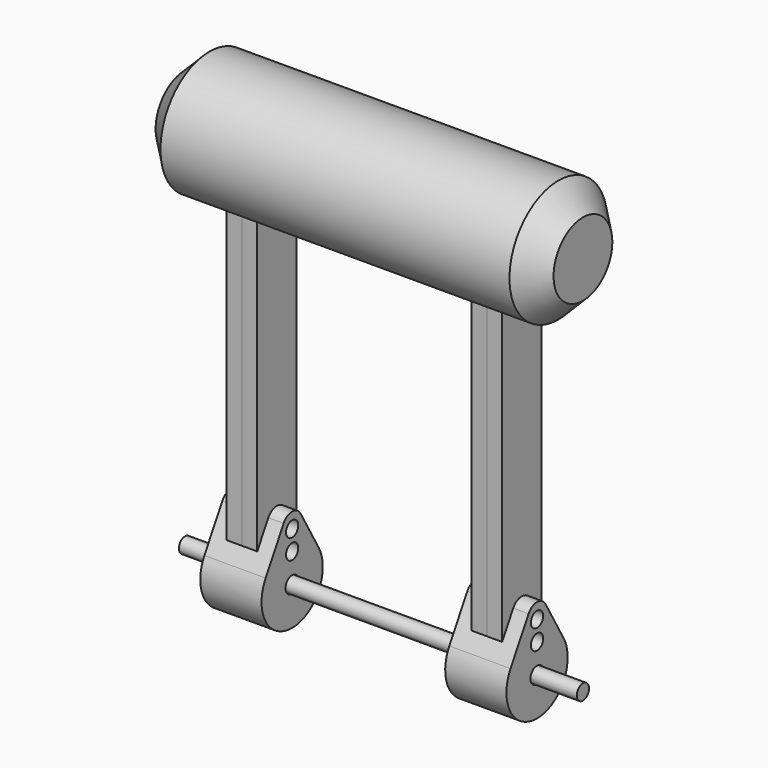
from build123d import *

# Parameters (mm, degrees)
F0_R           = 1.5875
F1_DEPTH       = 41.275
F1_DEPTH_BACK  = 41.275
F3_R           = 1.7145
F4_DEPTH       = 6.35
F4_DEPTH_BACK  = 6.35
F5_W           = 6.35
F5_H           = 10.16
F6_DEPTH       = 5.08
F6_DEPTH_BACK  = 5.08
F8_DEPTH       = 3.175
F9_DEPTH       = 3.175
F10_R          = 1.5875
F11_DEPTH      = 25.4
F11_DEPTH_BACK = 25.4
F13_R          = 12.7
F14_DEPTH      = 41.275
F14_DEPTH_BACK = 41.275
F15_SIZE       = 5.08
F16_W          = 6.35
F16_H          = 19.05
F17_DEPTH      = 5.08
F17_DEPTH_BACK = 5.08


with BuildPart() as f1:
    # F0 (on Right) → F1 (new body, two sides)
    with BuildSketch(Plane.YZ) as f1_sk:
        Circle(F0_R)
    extrude(amount=F1_DEPTH)
    extrude(f1_sk.sketch, amount=-F1_DEPTH_BACK)


with BuildPart() as f4:
    # F3 (on offset) → F4 (new body, two sides)
    with BuildSketch(Plane.YZ.offset(25.4)) as f4_sk:
        with BuildLine():
            ThreePointArc((-6.8740766425, 3.96875), (-2.0543761705, -7.6670362462), (7.9375, 0))
            ThreePointArc((7.9375, 0), (7.6670362462, 2.0543761705), (6.8740766425, 3.96875))
            ThreePointArc((6.8740766425, 3.96875), (0, 7.9375), (-6.8740766425, 3.96875))
        make_face()
        Circle(F3_R, mode=Mode.SUBTRACT)
        with BuildLine():
            ThreePointArc((-6.8740766425, 3.96875), (0, 7.9375), (6.8740766425, 3.96875))
            Line((6.8740766425, 3.96875), (2.1997045256, 12.065))
            ThreePointArc((2.1997045256, 12.065), (0, 13.335), (-2.1997045256, 12.065))
            Line((-2.1997045256, 12.065), (-6.8740766425, 3.96875))
        make_face()
    extrude(amount=F4_DEPTH)
    extrude(f4_sk.sketch, amount=-F4_DEPTH_BACK)

    # F5 (on Front) → F6 (cut, two sides)
    with BuildSketch(Plane.XZ) as f6_sk:
        with Locations((25.4, 7.9375)):
            Rectangle(F5_W, F5_H)
    extrude(amount=-F6_DEPTH, mode=Mode.SUBTRACT)
    extrude(f6_sk.sketch, amount=F6_DEPTH_BACK, mode=Mode.SUBTRACT)


with BuildPart() as f8:
    # F7 (on offset) → F8 (new body)
    with BuildSketch(Plane.YZ.offset(25.4)):
        with BuildLine():
            Line((-5.08, 7.0761818976), (-5.08, 2.8575))
            Line((-5.08, 2.8575), (5.08, 2.8575))
            Line((5.08, 2.8575), (5.08, 7.0761818976))
            Line((5.08, 7.0761818976), (5.08, 79.0575))
            ThreePointArc((5.08, 79.0575), (3.5921024484, 82.6496024484), (0, 84.1375))
            ThreePointArc((0, 84.1375), (-3.5921024484, 82.6496024484), (-5.08, 79.0575))
            Line((-5.08, 79.0575), (-5.08, 7.0761818976))
        make_face()
    extrude(amount=F8_DEPTH)


with BuildPart() as f9:
    # F7 (on offset) → F9 (new body)
    with BuildSketch(Plane.YZ.offset(25.4)):
        with BuildLine():
            Line((-5.08, 7.0761818976), (-5.08, 2.8575))
            Line((-5.08, 2.8575), (5.08, 2.8575))
            Line((5.08, 2.8575), (5.08, 7.0761818976))
            Line((5.08, 7.0761818976), (5.08, 79.0575))
            ThreePointArc((5.08, 79.0575), (3.5921024484, 82.6496024484), (0, 84.1375))
            ThreePointArc((0, 84.1375), (-3.5921024484, 82.6496024484), (-5.08, 79.0575))
            Line((-5.08, 79.0575), (-5.08, 7.0761818976))
        make_face()
    extrude(amount=-F9_DEPTH)


with BuildPart() as f11_tool:
    # F10 (on offset) → F11 (new body, two sides)
    with BuildSketch(Plane.YZ.offset(25.4)) as f11_sk:
        with Locations((0, 6.0325)):
            Circle(F10_R)
        with Locations((0, 10.16)):
            Circle(F10_R)
    extrude(amount=-F11_DEPTH)
    extrude(f11_sk.sketch, amount=F11_DEPTH_BACK)


with BuildPart() as f4_1:
    add(f4.part)

    # F11: cut by f11_tool
    add(f11_tool.part, mode=Mode.SUBTRACT)


with BuildPart() as f8_1:
    add(f8.part)

    # F11: cut by f11_tool
    add(f11_tool.part, mode=Mode.SUBTRACT)


with BuildPart() as f9_1:
    add(f9.part)

    # F11: cut by f11_tool
    add(f11_tool.part, mode=Mode.SUBTRACT)


with BuildPart() as f12_1:
    # F12: instance of F9
    add(f9_1.part.mirror(Plane.YZ))


with BuildPart() as f12_2:
    # F12: instance of F8
    add(f8_1.part.mirror(Plane.YZ))


with BuildPart() as f12_3:
    # F12: instance of F4
    add(f4_1.part.mirror(Plane.YZ))


with BuildPart() as f14:
    # F13 (on Right) → F14 (new body, two sides)
    with BuildSketch(Plane.YZ) as f14_sk:
        with Locations((0, 79.0575)):
            Circle(F13_R)
    extrude(amount=F14_DEPTH)
    extrude(f14_sk.sketch, amount=-F14_DEPTH_BACK)

    # F15
    f15_edges = [f14.edges().sort_by_distance(p)[0] for p in [
        (41.275, -12.7, 79.0575),
        (-41.275, -12.7, 79.0575),
    ]]
    chamfer(f15_edges, length=F15_SIZE)

    # F16 (on Front) → F17 (cut, two sides)
    with BuildSketch(Plane.XZ) as f17_sk:
        with Locations((-25.4, 75.8825)):
            Rectangle(F16_W, F16_H)
        with Locations((25.4, 75.8825)):
            Rectangle(F16_W, F16_H)
    extrude(amount=F17_DEPTH, mode=Mode.SUBTRACT)
    extrude(f17_sk.sketch, amount=-F17_DEPTH_BACK, mode=Mode.SUBTRACT)


solid = Compound([f1.part, f4_1.part, f8_1.part, f9_1.part, f12_1.part, f12_2.part, f12_3.part, f14.part])
